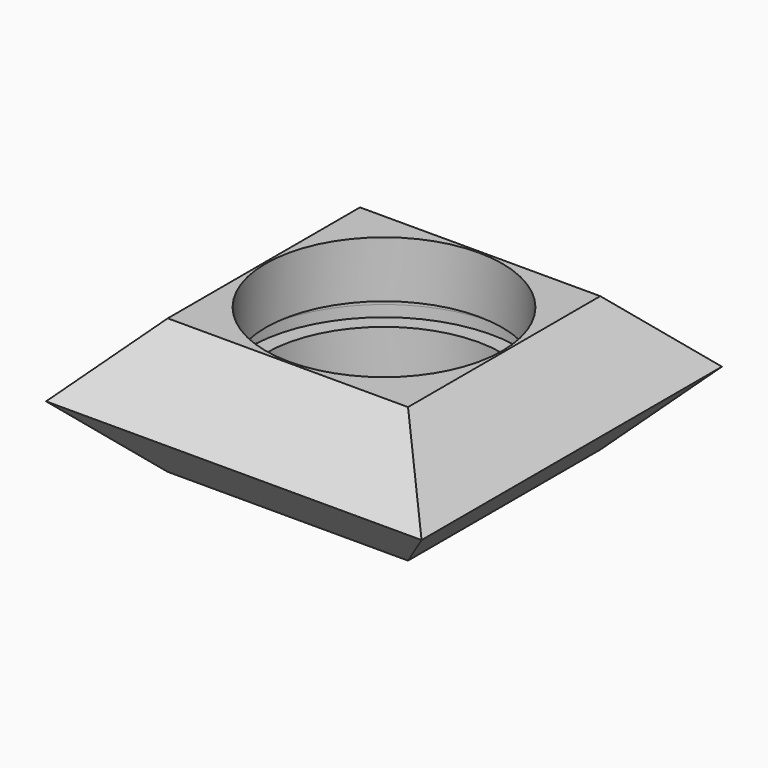
from build123d import *

# Parameters (mm, degrees)
F0_W     = 100
F0_H     = 100
F1_DEPTH = 18
F1_TAPER = 45
F2_R     = 31.5
F3_DEPTH = 18
F4_R     = 35.825122357
F5_DEPTH = 3
F6_R     = 2.5
F7_DEPTH = 5


with BuildPart() as f1:
    # F0 (on Top) → F1 (new body)
    with BuildSketch(Plane.XY):
        Rectangle(F0_W, F0_H)
    extrude(amount=F1_DEPTH, taper=F1_TAPER)

    # F2 (on Top) → F3 (cut)
    with BuildSketch(Plane.XY):
        Circle(F2_R)
    extrude(amount=F3_DEPTH, mode=Mode.SUBTRACT)

    # F4 (on Top) → F5 (cut)
    with BuildSketch(Plane.XY):
        Circle(F4_R)
    extrude(amount=F5_DEPTH, mode=Mode.SUBTRACT)

    # F6 (on Top) → F7 (cut)
    with BuildSketch(Plane.XY):
        with Locations((-40.8076118446, 40.8076118446)):
            Circle(F6_R)
        with Locations((-40.8076118446, -40.8076141554)):
            Circle(F6_R)
        with Locations((40.8076141554, 40.8076118446)):
            Circle(F6_R)
        with Locations((40.8076141554, -40.8076141554)):
            Circle(F6_R)
    extrude(amount=F7_DEPTH, mode=Mode.SUBTRACT)


with BuildPart() as f8_1:
    # F8: instance of F1
    add(f1.part.mirror(Plane.XY))


solid = Compound([f1.part, f8_1.part])
